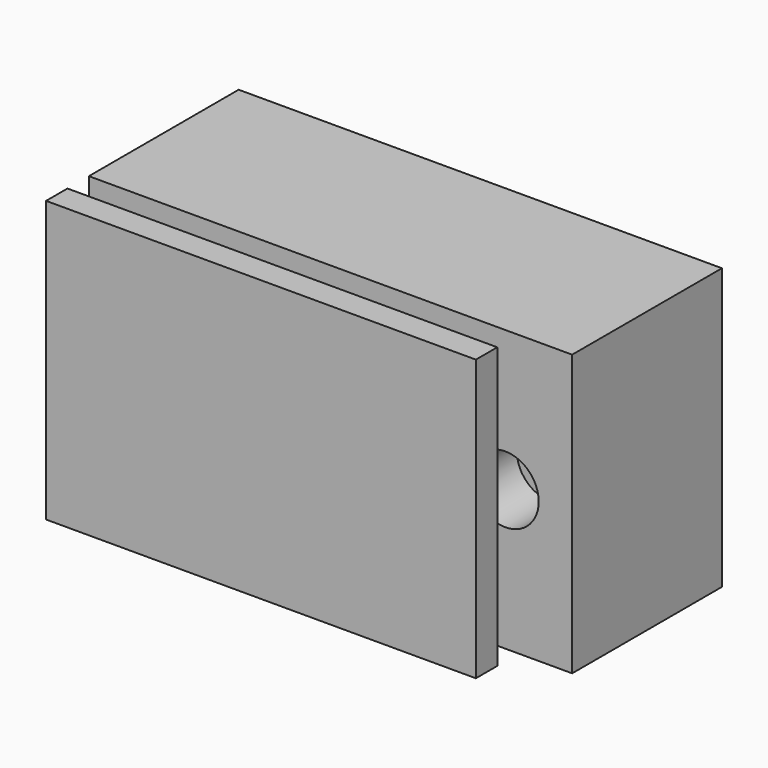
from build123d import *

# Parameters (mm, degrees)
BOX_W             = 12.14
BOX_H             = 16.14
BOX_DEPTH         = 10.98
BOX001_W          = 32.14
BOX001_H          = 2
BOX001_DEPTH      = 20.98
CYLINDER001_R     = 2.5
CYLINDER001_DEPTH = 4.2
CYLINDER_R        = 2.5
CYLINDER_DEPTH    = 4.2
BOX007_W          = 18.14
BOX007_H          = 4
BOX007_DEPTH      = 14.98
BOX006_W          = 36.14
BOX006_H          = 4
BOX006_DEPTH      = 20.98
BOX004_W          = 26.14
BOX004_H          = 10
BOX004_DEPTH      = 4
BOX003_W          = 6.14
BOX003_H          = 10
BOX003_DEPTH      = 4.98
BOX005_W          = 12.14
BOX005_H          = 16.14
BOX005_DEPTH      = 10.98
BOX002_W          = 36.14
BOX002_H          = 16
BOX002_DEPTH      = 20.98


with BuildPart() as usb:
    # Box → Box (new body)
    with BuildSketch(Plane(origin=(12, 0, 5), x_dir=(1, 0, 0), z_dir=(0, 0, 1))):
        with Locations((6.07, 8.07)):
            Rectangle(BOX_W, BOX_H)
    extrude(amount=BOX_DEPTH)


with BuildPart() as panel:
    # Box001 → Box001 (new body)
    with BuildSketch(Plane.XY):
        with Locations((16.07, 1)):
            Rectangle(BOX001_W, BOX001_H)
    extrude(amount=BOX001_DEPTH)


with BuildPart() as cylinder001:
    # Cylinder001 → Cylinder001 (new body)
    with BuildSketch(Plane(origin=(31.14, 4, 10.49), x_dir=(1, 0, 0), z_dir=(0, 1, 0))):
        Circle(CYLINDER001_R)
    extrude(amount=CYLINDER001_DEPTH)


with BuildPart() as cylinder:
    # Cylinder → Cylinder (new body)
    with BuildSketch(Plane(origin=(5, 4, 10.49), x_dir=(1, 0, 0), z_dir=(0, 1, 0))):
        Circle(CYLINDER_R)
    extrude(amount=CYLINDER_DEPTH)


with BuildPart() as cube005:
    # Box007 → Box007 (new body)
    with BuildSketch(Plane(origin=(9, 0, 3), x_dir=(1, 0, 0), z_dir=(0, 0, 1))):
        with Locations((9.07, 2)):
            Rectangle(BOX007_W, BOX007_H)
    extrude(amount=BOX007_DEPTH)


with BuildPart() as cut003:
    # Box006 → Box006 (new body)
    with BuildSketch(Plane.XY):
        with Locations((18.07, 2)):
            Rectangle(BOX006_W, BOX006_H)
    extrude(amount=BOX006_DEPTH)

    # Cut003: cut Cube005
    add(cube005.part, mode=Mode.SUBTRACT)


with BuildPart() as cube003:
    # Box004 → Box004 (new body)
    with BuildSketch(Plane(origin=(5, 16.14, 8.5), x_dir=(1, 0, 0), z_dir=(0, 0, 1))):
        with Locations((13.07, 5)):
            Rectangle(BOX004_W, BOX004_H)
    extrude(amount=BOX004_DEPTH)


with BuildPart() as cube002:
    # Box003 → Box003 (new body)
    with BuildSketch(Plane(origin=(15, 16.14, 8), x_dir=(1, 0, 0), z_dir=(0, 0, 1))):
        with Locations((3.07, 5)):
            Rectangle(BOX003_W, BOX003_H)
    extrude(amount=BOX003_DEPTH)


with BuildPart() as cube004:
    # Box005 → Box005 (new body)
    with BuildSketch(Plane(origin=(12, 0, 5), x_dir=(1, 0, 0), z_dir=(0, 0, 1))):
        with Locations((6.07, 8.07)):
            Rectangle(BOX005_W, BOX005_H)
    extrude(amount=BOX005_DEPTH)


with BuildPart() as cut006:
    # Box002 → Box002 (new body)
    with BuildSketch(Plane(origin=(0, 2, 0), x_dir=(1, 0, 0), z_dir=(0, 0, 1))):
        with Locations((18.07, 8)):
            Rectangle(BOX002_W, BOX002_H)
    extrude(amount=BOX002_DEPTH)

    # Cut: cut Cube004
    add(cube004.part, mode=Mode.SUBTRACT)

    # Cut001: cut Cube002
    add(cube002.part, mode=Mode.SUBTRACT)

    # Cut002: cut Cube003
    add(cube003.part, mode=Mode.SUBTRACT)

    # Cut004: cut Cut003
    add(cut003.part, mode=Mode.SUBTRACT)

    # Cut005: cut Cylinder
    add(cylinder.part, mode=Mode.SUBTRACT)

    # Cut006: cut Cylinder001
    add(cylinder001.part, mode=Mode.SUBTRACT)


solid = Compound([usb.part, panel.part, cut006.part])
